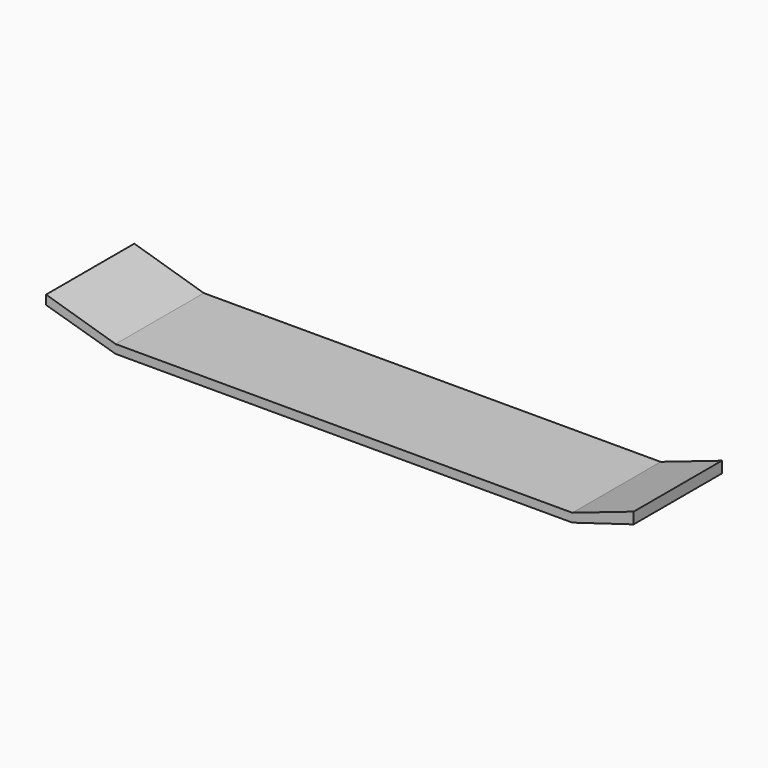
from build123d import *

# Parameters (mm, degrees)
F0_W     = 105.189618
F0_H     = 2.00025
F1_DEPTH = 25.4


with BuildPart() as f1:
    # F0 (on Front) → F1 (new body)
    with BuildSketch(Plane.XZ):
        with Locations((0.941293, -1.000125)):
            Rectangle(F0_W, F0_H)
        Polygon((-51.653516, -2.00025), (-51.653516, 0), (-67.655519, 4.824132), (-67.655519, 2.706221), align=None)
        Polygon((67.655511, 4.824132), (53.536102, 0), (53.536102, -2.00025), (67.655511, 2.235573), align=None)
    extrude(amount=F1_DEPTH)


solid = f1.part
